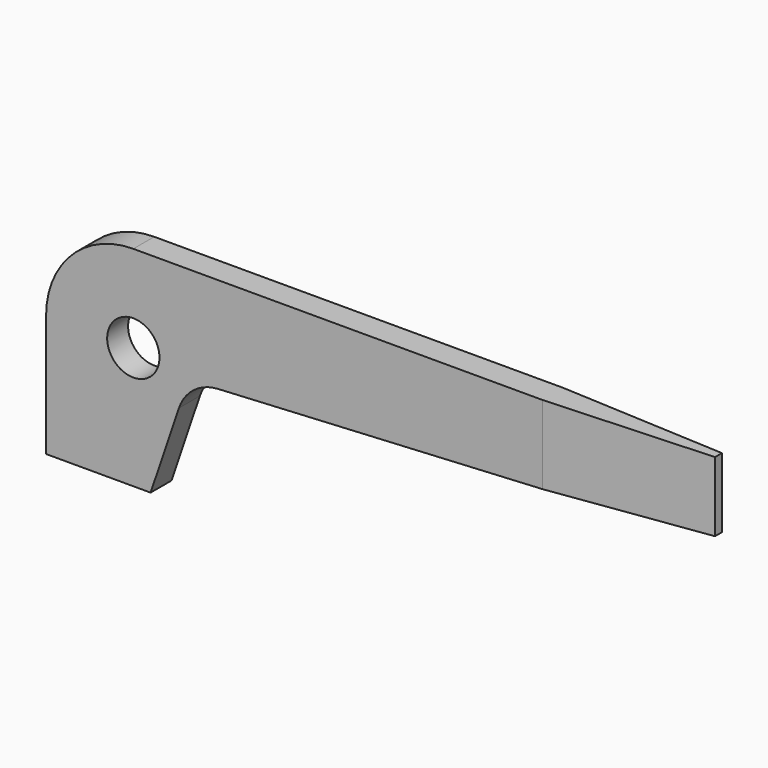
from build123d import *

# Parameters (mm, degrees)
F1_DEPTH = 2.38125
F2_R     = 2.38125
F3_DEPTH = 25.4
F5_DEPTH = 25.4


with BuildPart() as f1:
    # F0 (on Front) → F1 (new body)
    with BuildSketch(Plane.XZ):
        with BuildLine():
            Line((60.325, 19.05), (7.9502, 19.05))
            ThreePointArc((7.9502, 19.05), (2.32856, 16.72144), (0, 11.0998))
            Line((0, 11.0998), (0, 0))
            Line((0, 0), (9.525, 0))
            Line((9.525, 0), (12.110345, 7.626242))
            ThreePointArc((12.110345, 7.626242), (13.473756, 9.517878), (15.663421, 10.319465))
            Line((15.663421, 10.319465), (60.325, 12.7))
            Line((60.325, 12.7), (60.325, 19.05))
        make_face()
    extrude(amount=F1_DEPTH)

    # F2 (on face) → F3 (cut)
    with BuildSketch(Plane.XZ.offset(2.38125)):
        with Locations((7.9502, 11.0998)):
            Circle(F2_R)
    extrude(amount=-F3_DEPTH, mode=Mode.SUBTRACT)

    # F4 (on face) → F5 (cut)
    with BuildSketch(Plane.XY.offset(19.05)):
        Polygon((60.325, 0), (45.2374, 0), (60.325, -0.79375), align=None)
        Polygon((60.325, -2.38125), (60.325, -1.5875), (45.2374, -2.38125), align=None)
    extrude(amount=-F5_DEPTH, mode=Mode.SUBTRACT)


solid = f1.part
